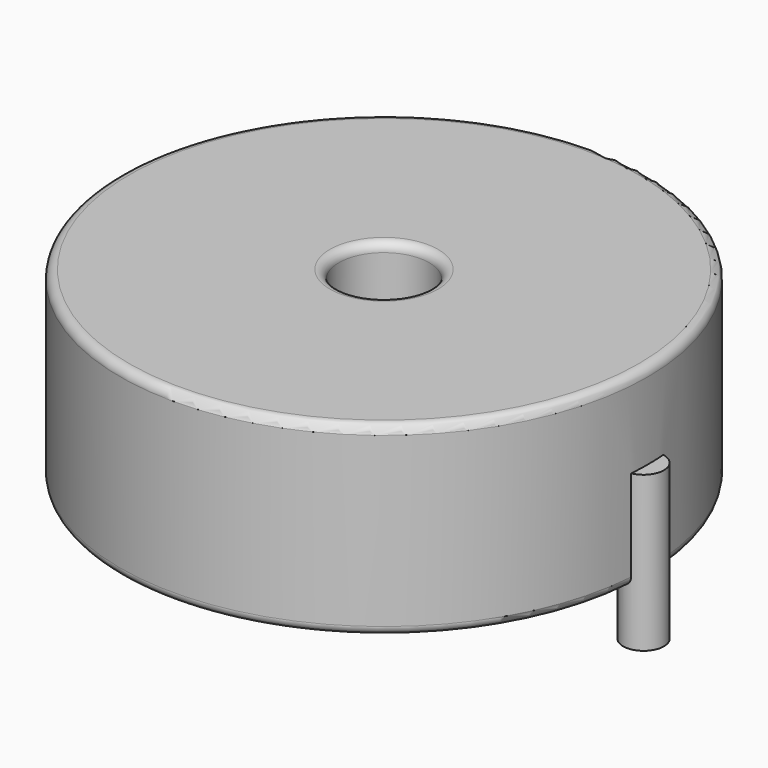
from build123d import *

# Parameters (mm, degrees)
SKETCH001_R       = 1.15
PAD001_DEPTH      = 5.25
PAD001_DEPTH_BACK = 3.5
SKETCH_R          = 14.9
SKETCH_R_2        = 2.55
PAD_DEPTH         = 10.5
FILLET_R          = 0.5


with BuildPart() as pad001:
    # Sketch001 → Pad001 (new body, two sides)
    with BuildSketch(Plane.XY.offset(0.5)) as pad001_sk:
        Circle(SKETCH001_R)
        with Locations((29.3, 0)):
            Circle(SKETCH001_R)
    extrude(amount=PAD001_DEPTH)
    extrude(pad001_sk.sketch, amount=-PAD001_DEPTH_BACK)


with BuildPart() as obj1:
    # Sketch → Pad (new body)
    with BuildSketch(Plane.XY.offset(0.1)):
        with Locations((14.65, 0)):
            Circle(SKETCH_R)
        with Locations((14.65, 0)):
            Circle(SKETCH_R_2, mode=Mode.SUBTRACT)
    extrude(amount=PAD_DEPTH)

    # Fillet
    fillet_edges = [obj1.edges().sort_by_distance(p)[0] for p in [
        (12.1, 0, 10.6),
        (-0.25, 0, 10.6),
        (-0.25, 0, 0.1),
    ]]
    fillet(fillet_edges, radius=FILLET_R)

    # obj1: union Pad001
    add(pad001.part)


solid = obj1.part
